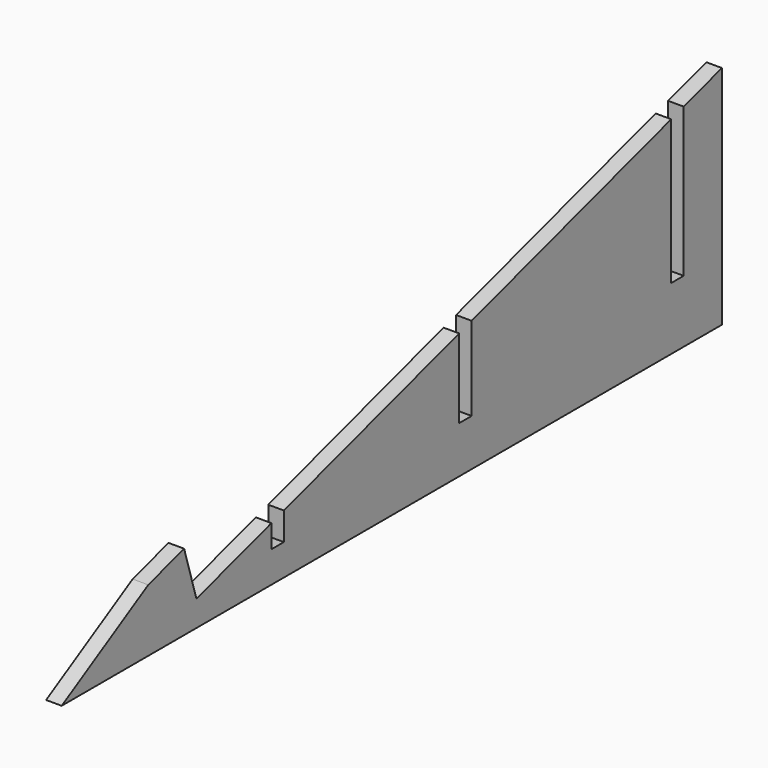
from build123d import *

# Parameters (mm, degrees)
F1_DEPTH = 6.35


with BuildPart() as f1:
    # F0 (on Right) → F1 (new body)
    with BuildSketch(Plane.YZ):
        Polygon((-291.547303, 0), (-291.547303, -25.4), (0, -25.4), (0, 66.494562), (-19.424815, 60.571454), (-19.424815, 0), (-25.774815, 0), (-25.774815, 58.635182), (-127.187408, 27.711969), (-127.187408, -6.35), (-133.537408, -6.35), (-133.537408, 25.775696), (-222.624815, -1.389263), (-222.624815, -12.7), (-228.974815, -12.7), (-228.974815, -3.325535), (-267.074815, -14.94317), (-273.325597, 5.55625), align=None)
        Polygon((-335.541394, -25.4), (-291.547303, -25.4), (-291.547303, 0), align=None)
    extrude(amount=F1_DEPTH)


solid = f1.part
